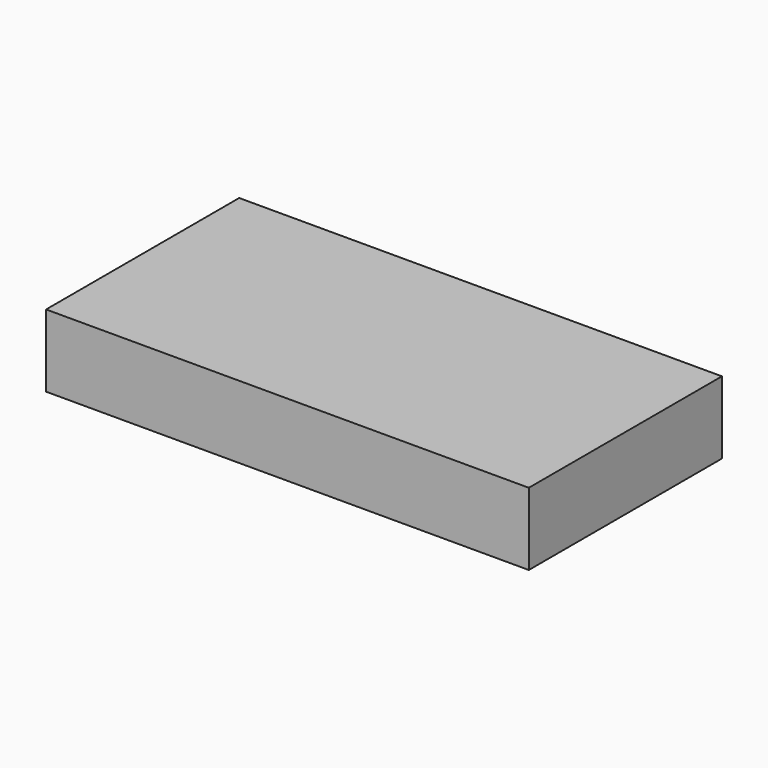
from build123d import *

# Parameters (mm, degrees)
SKETCH_W  = 200
SKETCH_H  = 100
PAD_DEPTH = 30


with BuildPart() as part:
    # Sketch → Pad (new body)
    with BuildSketch(Plane.XY):
        with Locations((100, 50)):
            Rectangle(SKETCH_W, SKETCH_H)
    extrude(amount=PAD_DEPTH)


solid = part.part
